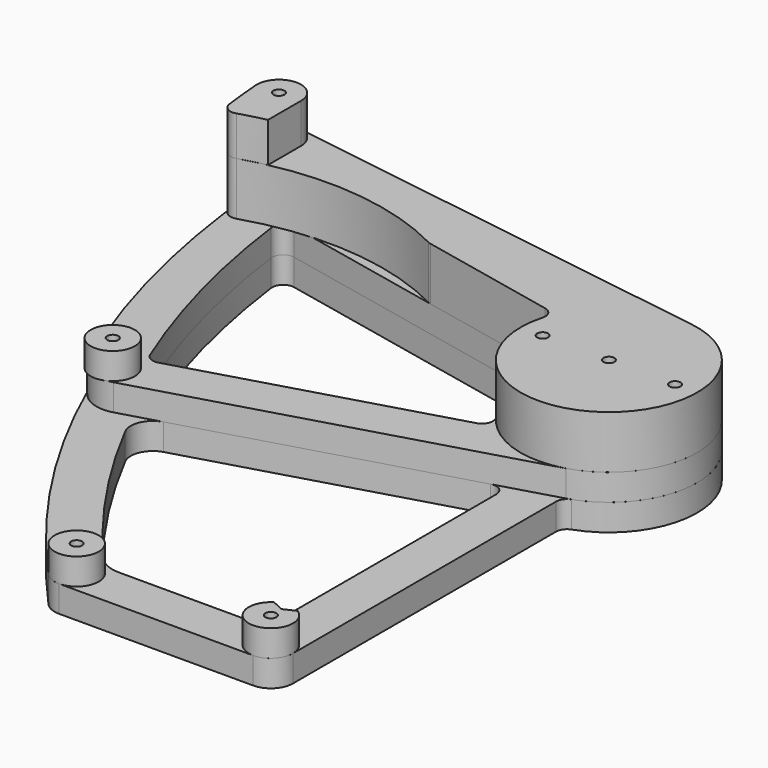
from build123d import *

# Parameters (mm, degrees)
F0_R      = 2.5
F1_DEPTH  = 12
F2_R      = 2.5
F3_DEPTH  = 12
F4_R      = 2.5
F5_DEPTH  = 24
F6_R      = 2.5
F6_R_2    = 10
F7_DEPTH  = 12
F8_R      = 2.5
F9_DEPTH  = 18
F10_R     = 10
F10_R_2   = 2.5
F11_DEPTH = 12


with BuildPart() as f1:
    # F0 (on Top) → F1 (new body)
    with BuildSketch(Plane.XY):
        with BuildLine():
            Line((-87.99, -201.443285), (0, -201.443285))
            ThreePointArc((0, -201.443285), (7.071068, -198.514353), (10, -191.443285))
            Line((10, -191.443285), (10, -42.426407))
            ThreePointArc((10, -42.426407), (10.917517, -39.539656), (13.333333, -37.712362))
            ThreePointArc((13.333333, -37.712362), (39.818217, 3.80915), (5.941546, 39.556264))
            Line((5.941546, 39.556264), (-196.001221, 69.889066))
            ThreePointArc((-196.001221, 69.889066), (-204.315485, 67.305233), (-207.453242, 59.1838))
            ThreePointArc((-207.453242, 59.1838), (-172.776256, -78.802342), (-95.376683, -198.183976))
            ThreePointArc((-95.376683, -198.183976), (-92.026898, -200.592244), (-87.99, -201.443285))
        make_face()
        with Locations((-87.99, -191.443285)):
            Circle(F0_R, mode=Mode.SUBTRACT)
        with Locations((-161.971245, -78.519526)):
            Circle(F0_R, mode=Mode.SUBTRACT)
        with Locations((0, -191.443285)):
            Circle(F0_R, mode=Mode.SUBTRACT)
        with BuildLine():
            ThreePointArc((-16.400725, -46.454734), (-12.000302, -47.254296), (-10, -51.254522))
            Line((-10, -51.254522), (-10, -176.443285))
            ThreePointArc((-10, -176.443285), (-11.464466, -179.978819), (-15, -181.443285))
            Line((-15, -181.443285), (-76.757752, -181.443285))
            ThreePointArc((-76.757752, -181.443285), (-82.999731, -180.082849), (-88.109467, -176.248313))
            ThreePointArc((-88.109467, -176.248313), (-117.727252, -137.57939), (-142.603339, -95.70244))
            ThreePointArc((-142.603339, -95.70244), (-142.912305, -87.170852), (-136.522014, -81.50979))
            Line((-136.522014, -81.50979), (-16.400725, -46.454734))
        make_face(mode=Mode.SUBTRACT)
        with BuildLine():
            ThreePointArc((-42.351463, 16.818212), (-39.119043, 14.526296), (-38.569358, 10.602106))
            ThreePointArc((-38.569358, 10.602106), (-39.369678, -7.073081), (-32.467007, -23.364363))
            ThreePointArc((-32.467007, -23.364363), (-31.797663, -27.912381), (-35.124658, -31.084697))
            Line((-35.124658, -31.084697), (-152.011901, -65.19596))
            ThreePointArc((-152.011901, -65.19596), (-155.584033, -64.900057), (-158.040263, -62.289573))
            ThreePointArc((-158.040263, -62.289573), (-174.990655, -11.83516), (-185.334455, 40.375656))
            ThreePointArc((-185.334455, 40.375656), (-183.772469, 44.701102), (-179.338442, 45.92122))
            Line((-179.338442, 45.92122), (-42.351463, 16.818212))
        make_face(mode=Mode.SUBTRACT)
        with Locations((-197.486607, 60)):
            Circle(F0_R, mode=Mode.SUBTRACT)
        with Locations((-30, 0)):
            Circle(F0_R, mode=Mode.SUBTRACT)
        Circle(F0_R, mode=Mode.SUBTRACT)
        with Locations((30, 0)):
            Circle(F0_R, mode=Mode.SUBTRACT)
    extrude(amount=F1_DEPTH)


with BuildPart() as f3:
    # F2 (on face) → F3 (new body)
    with BuildSketch(Plane.XY.offset(12)):
        with BuildLine():
            ThreePointArc((-196.001221, 69.889066), (-204.315485, 67.305233), (-207.453242, 59.1838))
            ThreePointArc((-207.453242, 59.1838), (-195.846463, -11.06228), (-172.921258, -78.468986))
            ThreePointArc((-172.921258, -78.468986), (-165.532268, -86.072532), (-154.961497, -86.890993))
            Line((-154.961497, -86.890993), (11.205798, -38.398309))
            ThreePointArc((11.205798, -38.398309), (39.909105, 2.695051), (5.941546, 39.556264))
            Line((5.941546, 39.556264), (-196.001221, 69.889066))
        make_face()
        with Locations((-161.971245, -78.519526)):
            Circle(F2_R, mode=Mode.SUBTRACT)
        with BuildLine():
            ThreePointArc((-158.040263, -62.289573), (-174.990655, -11.83516), (-185.334455, 40.375656))
            ThreePointArc((-185.334455, 40.375656), (-183.772469, 44.701102), (-179.338442, 45.92122))
            Line((-179.338442, 45.92122), (-42.351463, 16.818212))
            ThreePointArc((-42.351463, 16.818212), (-39.119043, 14.526296), (-38.569358, 10.602106))
            ThreePointArc((-38.569358, 10.602106), (-39.369678, -7.073081), (-32.467007, -23.364363))
            ThreePointArc((-32.467007, -23.364363), (-31.797663, -27.912381), (-35.124658, -31.084697))
            Line((-35.124658, -31.084697), (-152.011901, -65.19596))
            ThreePointArc((-152.011901, -65.19596), (-155.584033, -64.900057), (-158.040263, -62.289573))
        make_face(mode=Mode.SUBTRACT)
        with Locations((-197.486607, 60)):
            Circle(F2_R, mode=Mode.SUBTRACT)
        with Locations((-30, 0)):
            Circle(F2_R, mode=Mode.SUBTRACT)
        Circle(F2_R, mode=Mode.SUBTRACT)
        with Locations((30, 0)):
            Circle(F2_R, mode=Mode.SUBTRACT)
    extrude(amount=F3_DEPTH)

    # F10 (on face) → F11 (join)
    with BuildSketch(Plane.XY.offset(24)):
        with Locations((-161.971245, -78.519526)):
            Circle(F10_R)
        with Locations((-161.971245, -78.519526)):
            Circle(F10_R_2, mode=Mode.SUBTRACT)
    extrude(amount=F11_DEPTH)


with BuildPart() as f5:
    # F4 (on face) → F5 (new body)
    with BuildSketch(Plane.XY.offset(24)):
        with BuildLine():
            ThreePointArc((-199.25607, 38.168485), (-151.992821, 43.573394), (-106.234374, 30.565997))
            ThreePointArc((-106.234374, 30.565997), (-105.630853, 30.306117), (-104.998464, 30.127624))
            Line((-104.998464, 30.127624), (-42.351463, 16.818212))
            ThreePointArc((-42.351463, 16.818212), (-39.119043, 14.526296), (-38.569358, 10.602106))
            ThreePointArc((-38.569358, 10.602106), (21.81122, -33.530146), (5.941546, 39.556264))
            Line((5.941546, 39.556264), (-196.001221, 69.889066))
            ThreePointArc((-196.001221, 69.889066), (-204.315485, 67.305233), (-207.453242, 59.1838))
            ThreePointArc((-207.453242, 59.1838), (-206.679549, 50.748139), (-205.741516, 42.329168))
            ThreePointArc((-205.741516, 42.329168), (-203.477769, 38.722852), (-199.25607, 38.168485))
        make_face()
        with Locations((-30, 0)):
            Circle(F4_R, mode=Mode.SUBTRACT)
        Circle(F4_R, mode=Mode.SUBTRACT)
        with Locations((30, 0)):
            Circle(F4_R, mode=Mode.SUBTRACT)
        with Locations((-197.486607, 60)):
            Circle(F4_R, mode=Mode.SUBTRACT)
    extrude(amount=F5_DEPTH)


with BuildPart() as f7:
    # F6 (on face) → F7 (new body)
    with BuildSketch(Plane.XY.offset(12)):
        with BuildLine():
            Line((0, -185.443285), (-5.307826, -182.968205))
            ThreePointArc((-5.307826, -182.968205), (0, -201.443285), (5.307826, -182.968205))
            Line((5.307826, -182.968205), (0, -185.443285))
        make_face()
        with Locations((0, -191.443285)):
            Circle(F6_R, mode=Mode.SUBTRACT)
        with Locations((-87.99, -191.443285)):
            Circle(F6_R_2)
        with Locations((-87.99, -191.443285)):
            Circle(F6_R, mode=Mode.SUBTRACT)
    extrude(amount=F7_DEPTH)


with BuildPart() as f9:
    # F8 (on face) → F9 (new body)
    with BuildSketch(Plane.XY.offset(48)):
        with BuildLine():
            ThreePointArc((-187.486986, 60.087077), (-197.938547, 69.989782), (-207.453242, 59.1838))
            ThreePointArc((-207.453242, 59.1838), (-206.679549, 50.748139), (-205.741516, 42.329168))
            ThreePointArc((-205.741516, 42.329168), (-203.477769, 38.722852), (-199.25607, 38.168485))
            ThreePointArc((-199.25607, 38.168485), (-193.410384, 39.877394), (-187.486986, 41.293649))
            Line((-187.486986, 41.293649), (-187.486986, 60.087077))
        make_face()
        with Locations((-197.486607, 60)):
            Circle(F8_R, mode=Mode.SUBTRACT)
    extrude(amount=F9_DEPTH)


solid = Compound([f1.part, f3.part, f5.part, f7.part, f9.part])
